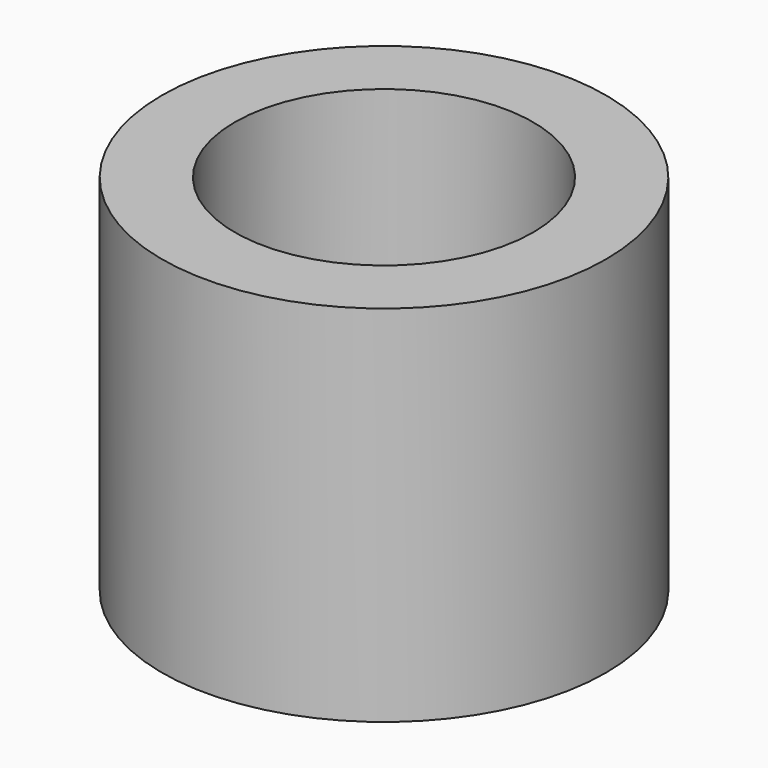
from build123d import *

# Parameters (mm, degrees)
CYLINDER_R        = 6.1
CYLINDER_DEPTH    = 10
CYLINDER001_R     = 4.1
CYLINDER001_DEPTH = 10


with BuildPart() as part:
    # Cylinder → Cylinder (join)
    with BuildSketch(Plane.XY):
        Circle(CYLINDER_R)
    extrude(amount=CYLINDER_DEPTH)

    # Cylinder001 → Cylinder001 (cut)
    with BuildSketch(Plane.XY):
        Circle(CYLINDER001_R)
    extrude(amount=CYLINDER001_DEPTH, mode=Mode.SUBTRACT)


solid = part.part
